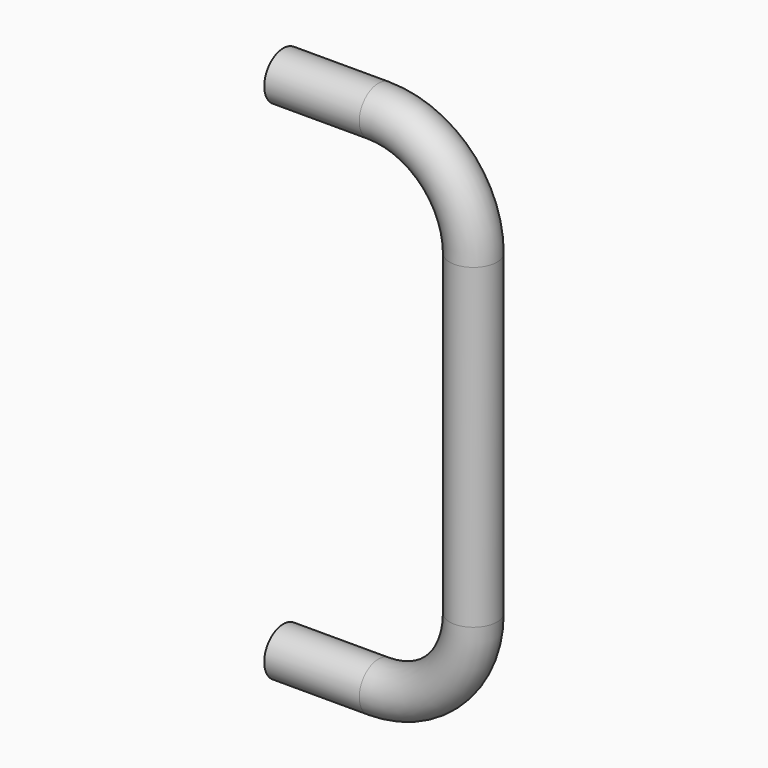
from build123d import *

# Parameters (mm, degrees)
F0_R = 4.7625


with BuildPart() as f2:
    # F2: sweep along a path in F1
    with BuildLine(Plane.XZ) as f2_path:
        Line((0, 0), (19.05, 0))
        ThreePointArc((19.05, 0), (32.5203841816, -5.5796158184), (38.1, -19.05))
        Line((38.1, -19.05), (38.1, -82.55))
        ThreePointArc((38.1, -82.55), (32.5203841816, -96.0203841816), (19.05, -101.6))
        Line((19.05, -101.6), (0, -101.6))
    # F0 (on Right) → F2 (sweep)
    with BuildSketch(Plane.YZ):
        Circle(F0_R)
    sweep(path=f2_path.line)


solid = f2.part
